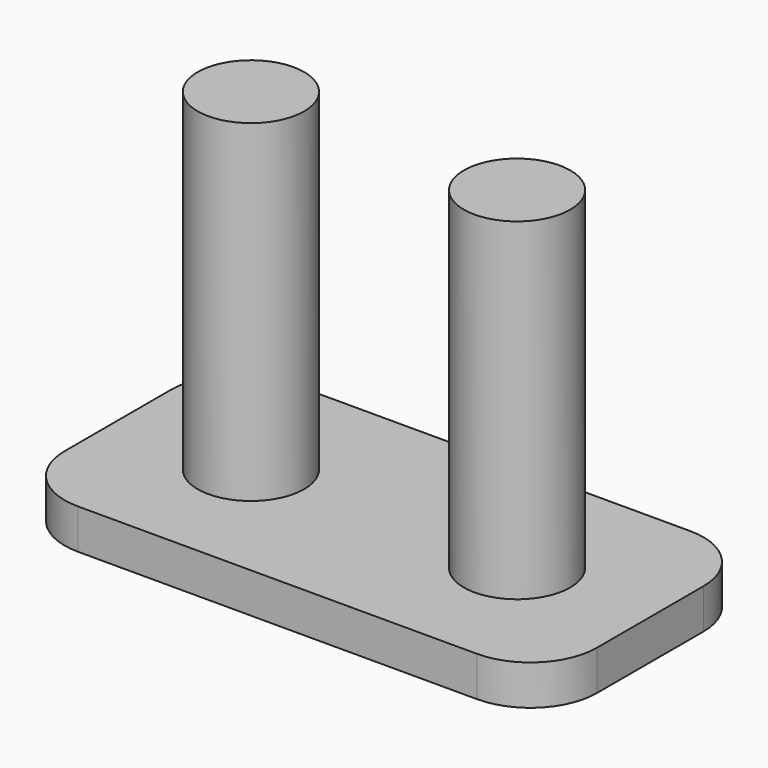
from build123d import *

# Parameters (mm, degrees)
F0_W     = 40
F0_H     = 20
F0_R     = 4
F1_DEPTH = 3
F2_R     = 4
F3_DEPTH = 25
F4_R     = 5


with BuildPart() as f1:
    # F0 (on Top) → F1 (new body)
    with BuildSketch(Plane.XY):
        Rectangle(F0_W, F0_H)
        with Locations((-10, 0)):
            Circle(F0_R, mode=Mode.SUBTRACT)
        with Locations((10, 0)):
            Circle(F0_R, mode=Mode.SUBTRACT)
        with Locations((-10, 0)):
            Circle(F0_R)
        with Locations((10, 0)):
            Circle(F0_R)
    extrude(amount=-F1_DEPTH)

    # F2 (on face) → F3 (join)
    with BuildSketch(Plane.XY):
        with Locations((-10, 0)):
            Circle(F2_R)
        with Locations((10, 0)):
            Circle(F2_R)
    extrude(amount=F3_DEPTH)

    # F4
    f4_edges = [f1.edges().sort_by_distance(p)[0] for p in [
        (-20, -10, -1.5),
        (-20, 10, -1.5),
        (20, 10, -1.5),
        (20, -10, -1.5),
    ]]
    fillet(f4_edges, radius=F4_R)


solid = f1.part
